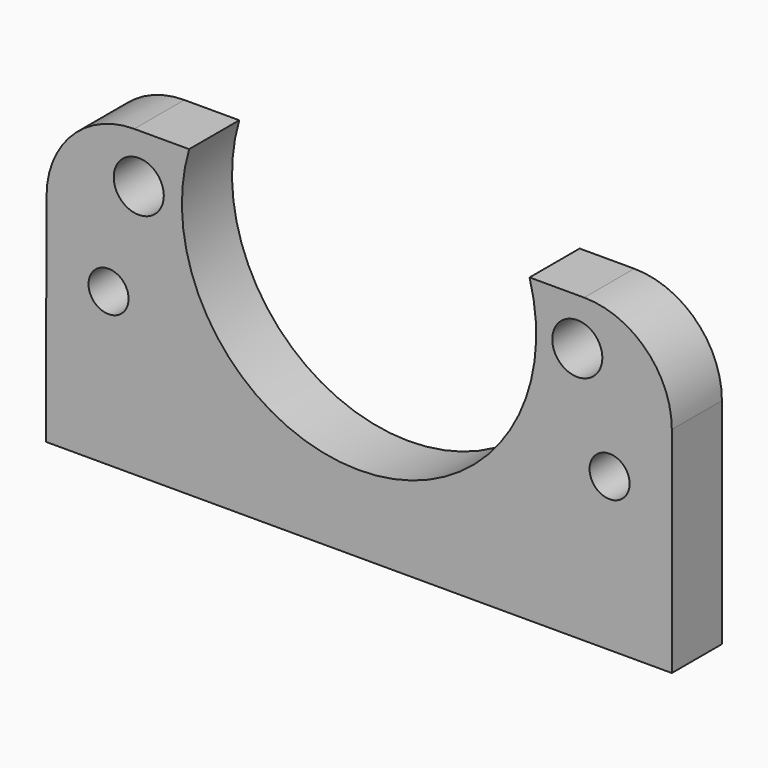
from build123d import *

# Parameters (mm, degrees)
PAD018_DEPTH    = 5
FILLET_R        = 7
SKETCH045_R     = 2
SKETCH045_R_2   = 1.6
POCKET014_DEPTH = 5


with BuildPart() as part:
    # Sketch044 → Pad018 (new body)
    with BuildSketch(Plane.XZ):
        with BuildLine():
            ThreePointArc((-13.565707, 79.497418), (-0.091594, 61.343037), (13.616485, 79.321409))
            Line((24.977643, 79.321409), (13.616485, 79.321409))
            Line((24.977643, 61.321409), (24.977643, 79.321409))
            Line((24.977643, 61.321409), (24.977643, 55.203457))
            Line((24.977643, 55.203457), (-24.990618, 55.203457))
            Line((-24.990618, 55.203457), (-24.990618, 61.497418))
            Line((-24.926865, 79.497418), (-24.990618, 61.497418))
            Line((-24.926865, 79.497418), (-13.565707, 79.497418))
        make_face()
    extrude(amount=-PAD018_DEPTH)

    # Fillet
    fillet_edges = [part.edges().sort_by_distance(p)[0] for p in [
        (24.977643, 2.5, 79.321409),
        (-24.926865, 2.5, 79.497418),
    ]]
    fillet(fillet_edges, radius=FILLET_R)

    # Sketch045 (on Face5 of Fillet) → Pocket014 (cut)
    with BuildSketch(Plane(origin=(0, 5, 0), x_dir=(1, 0, 0), z_dir=(0, 1, 0))):
        with Locations((-17.590132, -75.56945)):
            Circle(SKETCH045_R)
        with Locations((17.428322, -75.561134)):
            Circle(SKETCH045_R)
        with Locations((-20.002373, -67.402222)):
            Circle(SKETCH045_R_2)
        with Locations((20.00708, -67.407166)):
            Circle(SKETCH045_R_2)
    extrude(amount=-POCKET014_DEPTH, mode=Mode.SUBTRACT)


with BuildPart() as part_1:
    # Body020 placement: moved
    add(part.part.moved(Location((0, 13, 0))))


solid = part_1.part
